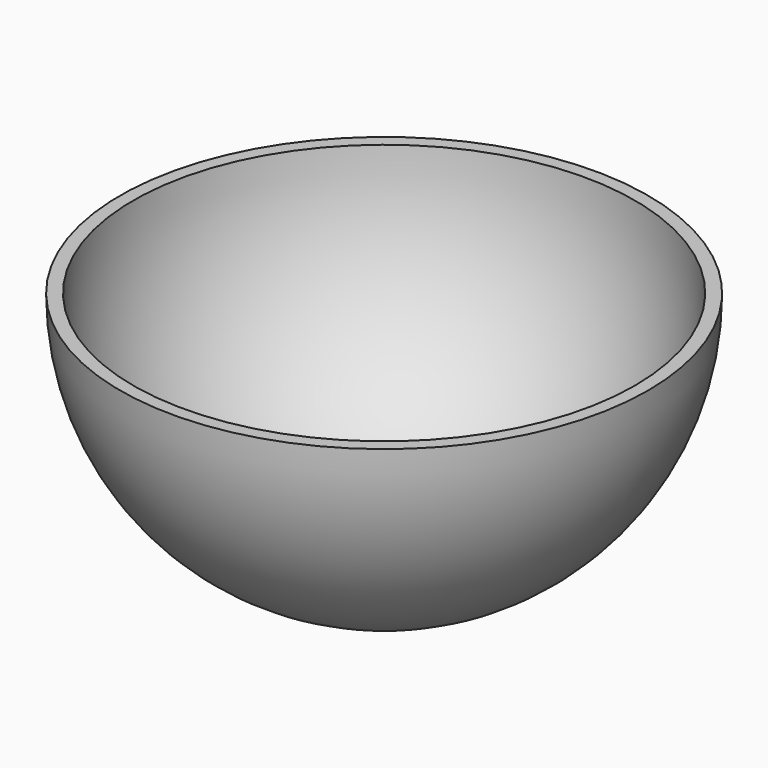
from build123d import *

# Parameters (mm, degrees)
BOX001_W     = 80
BOX001_H     = 80
BOX001_DEPTH = 40


with BuildPart() as obj1:
    # Sphere → Sphere (revolve)
    with BuildSketch(Plane(origin=(38, 38, 0), x_dir=(1, 0, 0), z_dir=(0, -1, 0))):
        with BuildLine():
            ThreePointArc((0, -38), (38, 0), (0, 38))
            Line((0, 38), (0, -38))
        make_face()
    revolve(axis=Axis((38, 38, 0), (0, 0, 1)))


with BuildPart() as obj2:
    # Box001 → Box001 (new body)
    with BuildSketch(Plane(origin=(-2, -2, 0), x_dir=(1, 0, 0), z_dir=(0, 0, 1))):
        with Locations((40, 40)):
            Rectangle(BOX001_W, BOX001_H)
    extrude(amount=BOX001_DEPTH)


with BuildPart() as fusion003:
    # Sphere002 → Sphere002 (revolve)
    with BuildSketch(Plane(origin=(38, 38, -42), x_dir=(1, 0, 0), z_dir=(0, -1, 0))):
        with BuildLine():
            ThreePointArc((0, -12), (12, 0), (0, 12))
            Line((0, 12), (0, -12))
        make_face()
    revolve(axis=Axis((38, 38, -42), (0, 0, 1)))

    # Fusion003: union obj1, obj2
    add(obj1.part)
    add(obj2.part)


with BuildPart() as dome:
    # Sphere001 → Sphere001 (revolve)
    with BuildSketch(Plane(origin=(38, 38, 0), x_dir=(1, 0, 0), z_dir=(0, -1, 0))):
        with BuildLine():
            ThreePointArc((0, -40), (40, 0), (0, 40))
            Line((0, 40), (0, -40))
        make_face()
    revolve(axis=Axis((38, 38, 0), (0, 0, 1)))

    # Cut: cut Fusion003
    add(fusion003.part, mode=Mode.SUBTRACT)


with BuildPart() as dome_1:
    # Cut placement: moved
    add(dome.part.moved(Location((0, 2, 1))))


solid = dome_1.part
